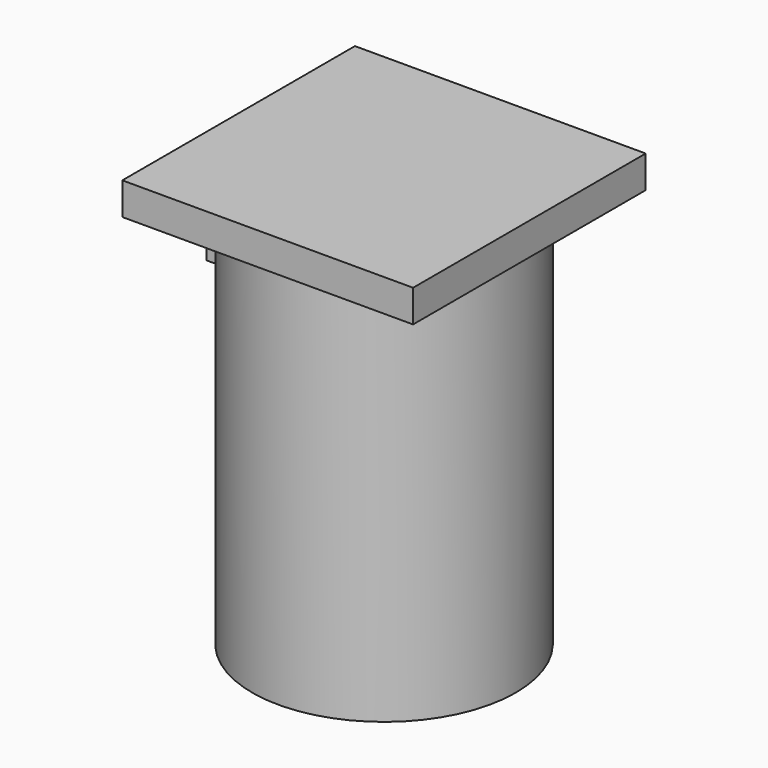
from build123d import *

# Parameters (mm, degrees)
BOX002_W          = 4.5
BOX002_H          = 29
BOX002_DEPTH      = 10
CYLINDER003_R     = 14.5
CYLINDER003_DEPTH = 5.5
CYLINDER002_R     = 3.9
CYLINDER002_DEPTH = 10
CYLINDER_R        = 13.75
CYLINDER_DEPTH    = 49.6
BOX_W             = 36
BOX_H             = 36
BOX_DEPTH         = 4
BOX001_W          = 10
BOX001_H          = 10
BOX001_DEPTH      = 10
CYLINDER001_R     = 16.32
CYLINDER001_DEPTH = 52


with BuildPart() as cube002:
    # Box002 → Box002 (new body)
    with BuildSketch(Plane(origin=(-2.2, -14.46, 0), x_dir=(1, 0, 0), z_dir=(0, 0, 1))):
        with Locations((2.25, 14.5)):
            Rectangle(BOX002_W, BOX002_H)
    extrude(amount=BOX002_DEPTH)


with BuildPart() as cylinder003:
    # Cylinder003 → Cylinder003 (new body)
    with BuildSketch(Plane.XY.offset(2.1)):
        Circle(CYLINDER003_R)
    extrude(amount=CYLINDER003_DEPTH)


with BuildPart() as cylinder002:
    # Cylinder002 → Cylinder002 (new body)
    with BuildSketch(Plane(origin=(-20, 0, 43), x_dir=(0, 0, -1), z_dir=(1, 0, 0))):
        Circle(CYLINDER002_R)
    extrude(amount=CYLINDER002_DEPTH)


with BuildPart() as cylinder:
    # Cylinder → Cylinder (new body)
    with BuildSketch(Plane.XY):
        Circle(CYLINDER_R)
    extrude(amount=CYLINDER_DEPTH)


with BuildPart() as cube:
    # Box → Box (new body)
    with BuildSketch(Plane(origin=(-18, -18, 48), x_dir=(1, 0, 0), z_dir=(0, 0, 1))):
        with Locations((18, 18)):
            Rectangle(BOX_W, BOX_H)
    extrude(amount=BOX_DEPTH)


with BuildPart() as cube001:
    # Box001 → Box001 (new body)
    with BuildSketch(Plane(origin=(-18, -5, 38), x_dir=(1, 0, 0), z_dir=(0, 0, 1))):
        with Locations((5, 5)):
            Rectangle(BOX001_W, BOX001_H)
    extrude(amount=BOX001_DEPTH)


with BuildPart() as cut003:
    # Cylinder001 → Cylinder001 (new body)
    with BuildSketch(Plane.XY):
        Circle(CYLINDER001_R)
    extrude(amount=CYLINDER001_DEPTH)

    # Fusion: union Cube, Cube001
    add(cube.part)
    add(cube001.part)

    # Cut: cut Cylinder
    add(cylinder.part, mode=Mode.SUBTRACT)

    # Cut001: cut Cylinder002
    add(cylinder002.part, mode=Mode.SUBTRACT)

    # Cut002: cut Cylinder003
    add(cylinder003.part, mode=Mode.SUBTRACT)

    # Cut003: cut Cube002
    add(cube002.part, mode=Mode.SUBTRACT)


solid = cut003.part
